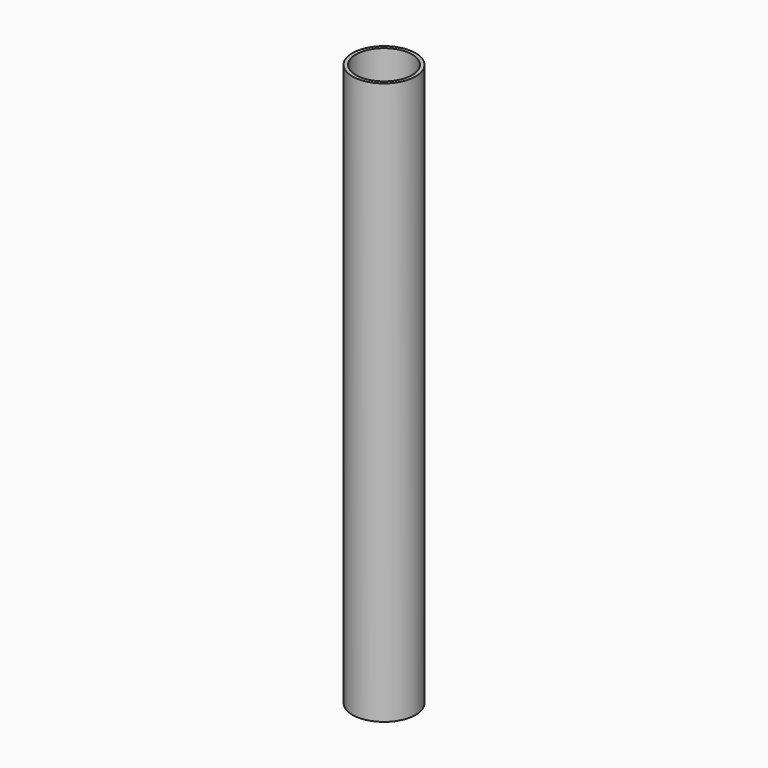
from build123d import *

# Parameters (mm, degrees)
F0_R     = 22.5
F0_R_2   = 20
F1_DEPTH = 400


with BuildPart() as f1:
    # F0 (on Top) → F1 (new body)
    with BuildSketch(Plane.XY):
        Circle(F0_R)
        Circle(F0_R_2, mode=Mode.SUBTRACT)
        Circle(F0_R)
        Circle(F0_R_2, mode=Mode.SUBTRACT)
    extrude(amount=F1_DEPTH)


solid = f1.part
